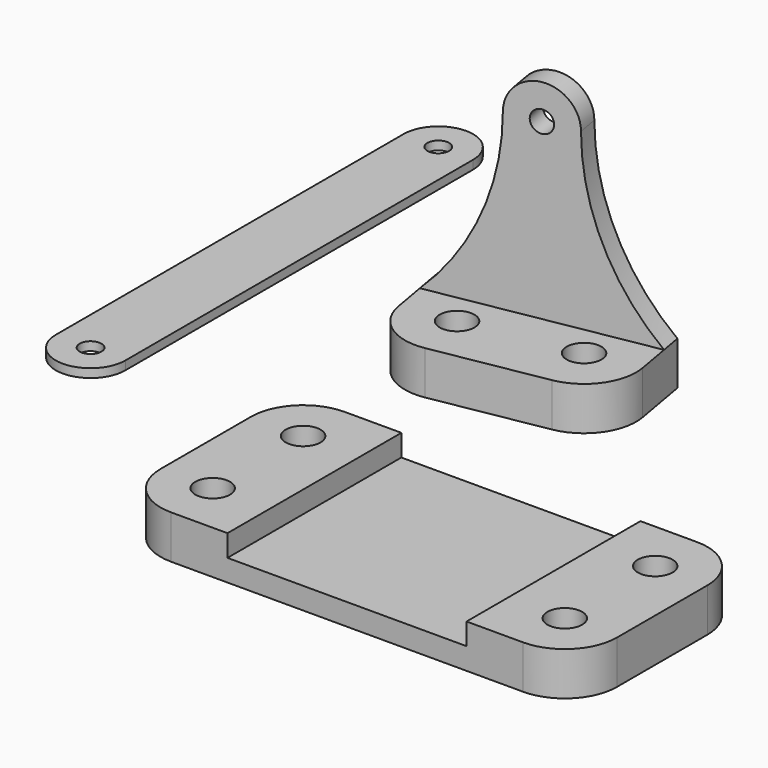
from build123d import *

# Parameters (mm, degrees)
SKETCH_R                = 4
PAD_DEPTH               = 10
SKETCH001_W             = 55
SKETCH001_H             = 50
POCKET_DEPTH            = 5
SKETCH002_R             = 4
PAD001_DEPTH            = 10
SKETCH003_R             = 2.5
PAD002_DEPTH            = 5
BODY001_PLACEMENT_ANGLE = 170
SKETCH004_R             = 2.5
PAD003_DEPTH            = 2


with BuildPart() as base:
    # Sketch → Pad (new body)
    with BuildSketch(Plane.XY):
        with BuildLine():
            Line((-52.5, 13), (-52.5, -13))
            ThreePointArc((-52.5, -13), (-48.985281, -21.485281), (-40.5, -25))
            Line((-40.5, -25), (40.5, -25))
            ThreePointArc((40.5, -25), (48.985281, -21.485281), (52.5, -13))
            Line((52.5, -13), (52.5, 13))
            ThreePointArc((52.5, 13), (48.985281, 21.485281), (40.5, 25))
            Line((40.5, 25), (-40.5, 25))
            ThreePointArc((-40.5, 25), (-48.985281, 21.485281), (-52.5, 13))
        make_face()
        with Locations((-40.5, 13)):
            Circle(SKETCH_R, mode=Mode.SUBTRACT)
        with Locations((-40.5, -13)):
            Circle(SKETCH_R, mode=Mode.SUBTRACT)
        with Locations((40.5, 13)):
            Circle(SKETCH_R, mode=Mode.SUBTRACT)
        with Locations((40.5, -13)):
            Circle(SKETCH_R, mode=Mode.SUBTRACT)
    extrude(amount=PAD_DEPTH)

    # Sketch001 (on Face14 of Pad) → Pocket (cut)
    with BuildSketch(Plane.XY.offset(10)):
        Rectangle(SKETCH001_W, SKETCH001_H)
    extrude(amount=-POCKET_DEPTH, mode=Mode.SUBTRACT)


with BuildPart() as bracket:
    # Sketch002 → Pad001 (new body)
    with BuildSketch(Plane.XY):
        with BuildLine():
            Line((-25, 13), (-25, 0))
            Line((-25, 0), (25, 0))
            Line((25, 0), (25, 13))
            ThreePointArc((25, 13), (21.485281, 21.485281), (13, 25))
            Line((13, 25), (-13, 25))
            ThreePointArc((-13, 25), (-21.485281, 21.485281), (-25, 13))
        make_face()
        with Locations((13, 13)):
            Circle(SKETCH002_R, mode=Mode.SUBTRACT)
        with Locations((-13, 13)):
            Circle(SKETCH002_R, mode=Mode.SUBTRACT)
    extrude(amount=PAD001_DEPTH)

    # Sketch003 (on Face2 of Pad001) → Pad002 (join)
    with BuildSketch(Plane.XZ):
        with BuildLine():
            ThreePointArc((-25, 10), (-12.42632, 28.268686), (-8, 50))
            ThreePointArc((8, 50), (0, 58), (-8, 50))
            ThreePointArc((8, 50), (12.42632, 28.268686), (25, 10))
            Line((-25, 10), (25, 10))
        make_face()
        with Locations((0, 50)):
            Circle(SKETCH003_R, mode=Mode.SUBTRACT)
    extrude(amount=-PAD002_DEPTH)


with BuildPart() as bracket_1:
    # Body001 placement: moved
    add(bracket.part.moved(Location((26.098938, 2.266049, 52))).rotate(Axis((26.098938, 2.266049, 52), (0, 0, -1)), BODY001_PLACEMENT_ANGLE))


with BuildPart() as link:
    # Sketch004 → Pad003 (new body)
    with BuildSketch(Plane.XY):
        with BuildLine():
            ThreePointArc((8, 50), (0, 58), (-8, 50))
            Line((-8, 50), (-8, -50))
            ThreePointArc((-8, -50), (0, -58), (8, -50))
            Line((8, 50), (8, -50))
        make_face()
        with Locations((0, 50)):
            Circle(SKETCH004_R, mode=Mode.SUBTRACT)
        with Locations((0, -50)):
            Circle(SKETCH004_R, mode=Mode.SUBTRACT)
    extrude(amount=PAD003_DEPTH)


with BuildPart() as link_1:
    # Body002 placement: moved
    add(link.part.moved(Location((-39, 0, 52))))


solid = Compound([base.part, bracket_1.part, link_1.part])
